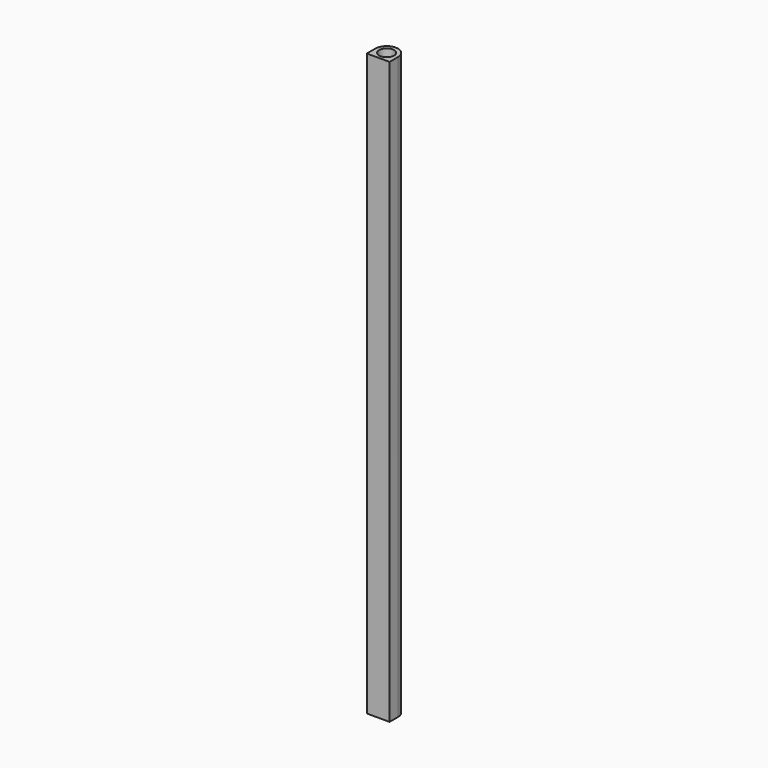
from build123d import *

# Parameters (mm, degrees)
F0_R     = 2.325
F1_DEPTH = 180


with BuildPart() as f1:
    # F0 (on Top) → F1 (new body)
    with BuildSketch(Plane.XY):
        with BuildLine():
            Line((-3.525, 0), (-3.525, -3.275))
            Line((-3.525, -3.275), (3.525, -3.275))
            Line((3.525, -3.275), (3.525, 0))
            ThreePointArc((3.525, 0), (0, 3.525), (-3.525, 0))
        make_face()
        Circle(F0_R, mode=Mode.SUBTRACT)
    extrude(amount=F1_DEPTH)


solid = f1.part
